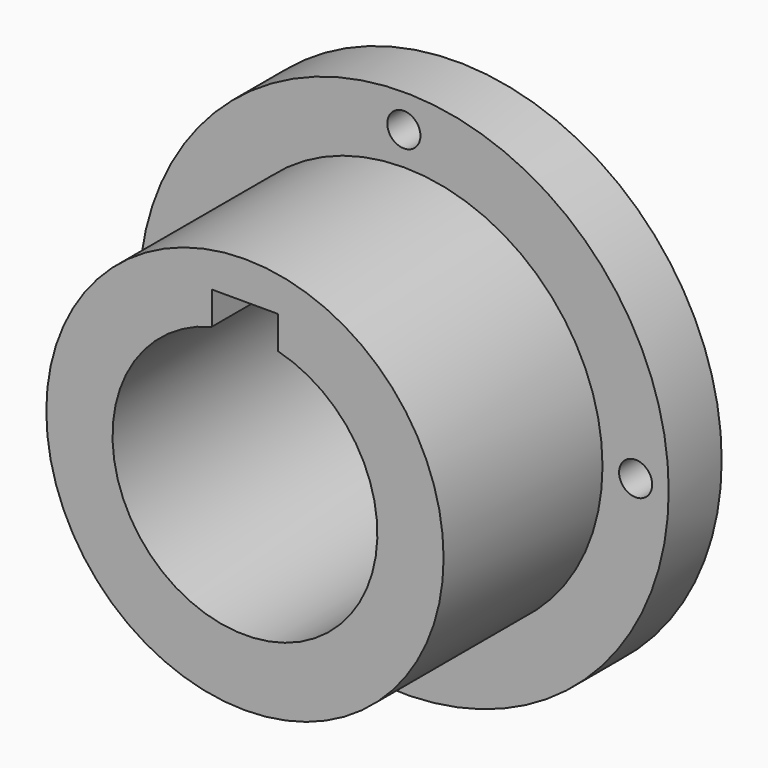
from build123d import *

# Parameters (mm, degrees)
F0_R     = 25.4
F0_R_2   = 1.5875
F0_R_3   = 12.7
F1_DEPTH = 6.35
F2_R     = 19.05
F2_R_2   = 12.7
F3_DEPTH = 25.4
F4_W     = 6.35
F4_H     = 15.4432
F5_DEPTH = 25.401


with BuildPart() as f1:
    # F0 (on Front) → F1 (new body)
    with BuildSketch(Plane.XZ):
        Circle(F0_R)
        with Locations((0, -22.225)):
            Circle(F0_R_2, mode=Mode.SUBTRACT)
        with Locations((-22.225, 0)):
            Circle(F0_R_2, mode=Mode.SUBTRACT)
        Circle(F0_R_3, mode=Mode.SUBTRACT)
        with Locations((22.225, 0)):
            Circle(F0_R_2, mode=Mode.SUBTRACT)
        with Locations((0, 22.225)):
            Circle(F0_R_2, mode=Mode.SUBTRACT)
    extrude(amount=F1_DEPTH)

    # F2 (on Front) → F3 (join)
    with BuildSketch(Plane.XZ):
        Circle(F2_R)
        Circle(F2_R_2, mode=Mode.SUBTRACT)
    extrude(amount=F3_DEPTH)

    # F4 (on Front) → F5 (cut, through all)
    with BuildSketch(Plane.XZ):
        with Locations((0, 7.7216)):
            Rectangle(F4_W, F4_H)
    extrude(amount=F5_DEPTH, mode=Mode.SUBTRACT)


solid = f1.part
